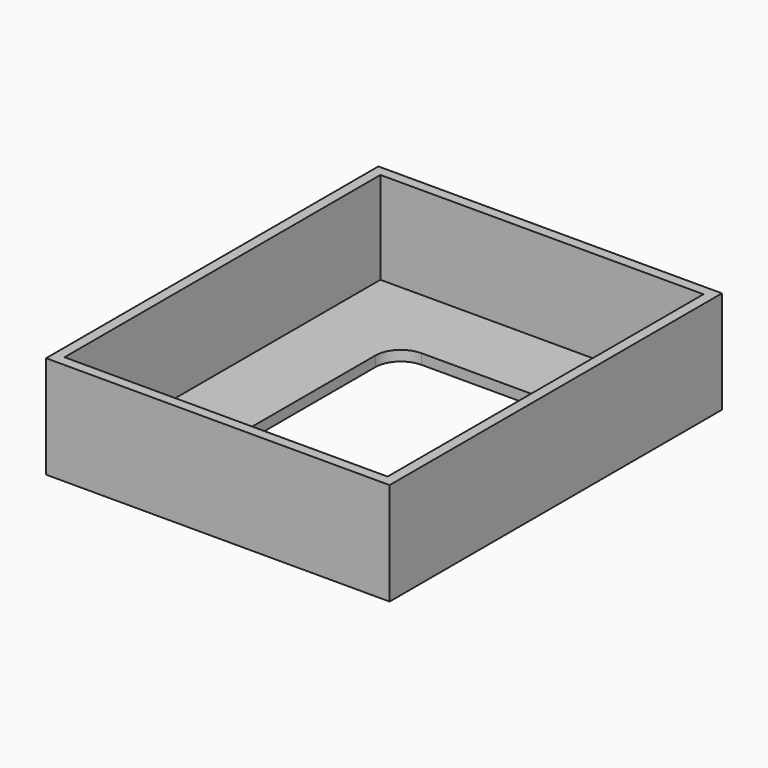
from build123d import *

# Parameters (mm, degrees)
F0_W     = 63
F0_H     = 77
F1_DEPTH = 2
F0_W_2   = 67
F0_H_2   = 81
F2_DEPTH = 20


with BuildPart() as f1:
    # F0 (on Top) → F1 (new body)
    with BuildSketch(Plane.XY):
        Rectangle(F0_W, F0_H)
        with BuildLine():
            ThreePointArc((-16.5, 18.5), (-15.035534, 22.035534), (-11.5, 23.5))
            Line((-11.5, 23.5), (11.5, 23.5))
            ThreePointArc((11.5, 23.5), (15.035534, 22.035534), (16.5, 18.5))
            Line((16.5, 18.5), (16.5, -18.5))
            ThreePointArc((16.5, -18.5), (15.035534, -22.035534), (11.5, -23.5))
            Line((11.5, -23.5), (-11.5, -23.5))
            ThreePointArc((-11.5, -23.5), (-15.035534, -22.035534), (-16.5, -18.5))
            Line((-16.5, -18.5), (-16.5, 18.5))
        make_face(mode=Mode.SUBTRACT)
    extrude(amount=F1_DEPTH)

    # F0 (on Top) → F2 (join)
    with BuildSketch(Plane.XY):
        Rectangle(F0_W_2, F0_H_2)
        Rectangle(F0_W, F0_H, mode=Mode.SUBTRACT)
    extrude(amount=F2_DEPTH)


solid = f1.part
